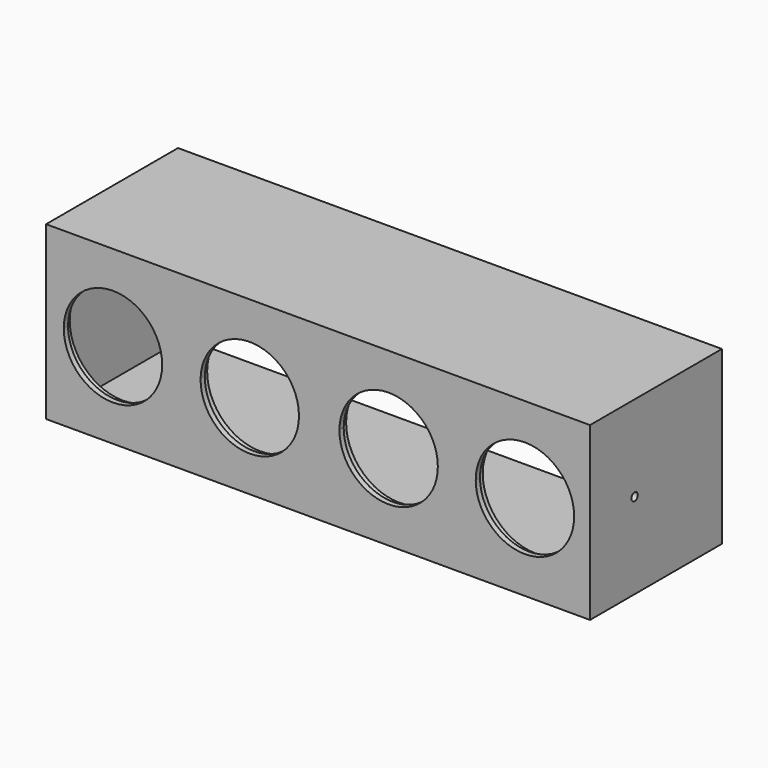
from build123d import *

# Parameters (mm, degrees)
F0_W     = 259.731292
F0_H     = 81.926138
F1_DEPTH = 2.54
F2_DEPTH = 76.2
F4_DEPTH = 3.81
F5_R     = 1.905
F6_DEPTH = 25.4
F7_W     = 2.467993
F7_H     = 69.85
F8_DEPTH = 3.81


with BuildPart() as f1:
    # F0 (on Front) → F1 (new body)
    with BuildSketch(Plane.XZ):
        Rectangle(F0_W, F0_H)
        Polygon((-127, 38.1), (127, 38.1), (127, 0), (127, -38.1), (-127, -38.1), (-127, 0), align=None, mode=Mode.SUBTRACT)
        with BuildLine():
            Line((127, 0), (127, 38.1))
            Line((127, 38.1), (-127, 38.1))
            Line((-127, 38.1), (-127, 0))
            Line((-127, 0), (-121.421141, 0))
            ThreePointArc((-121.421141, 0), (-97.926572, 23.352705), (-74.432003, 0))
            Line((-74.432003, 0), (-63.5, 0))
            Line((-63.5, 0), (-56.090223, 0))
            ThreePointArc((-56.090223, 0), (-32.59841, 23.10803), (-9.106597, 0))
            Line((-9.106597, 0), (0, 0))
            Line((0, 0), (10.213884, 0))
            ThreePointArc((10.213884, 0), (33.708453, 23.352705), (57.203022, 0))
            Line((57.203022, 0), (63.5, 0))
            Line((63.5, 0), (75.297165, 0))
            ThreePointArc((75.297165, 0), (98.740752, 23.597324), (122.286942, 0.10238))
            ThreePointArc((122.286942, 0.10238), (122.286886, 0.05119), (122.286719, 0))
            Line((122.286719, 0), (127, 0))
        make_face()
        with BuildLine():
            Line((127, -38.1), (127, 0))
            Line((127, 0), (122.286719, 0))
            ThreePointArc((122.286719, 0), (98.791942, -23.39262), (75.297165, 0))
            Line((75.297165, 0), (63.5, 0))
            Line((63.5, 0), (57.203022, 0))
            ThreePointArc((57.203022, 0), (57.203345, -0.071147), (57.203453, -0.142295))
            ThreePointArc((57.203453, -0.142295), (33.637305, -23.637187), (10.213884, 0))
            Line((10.213884, 0), (0, 0))
            Line((0, 0), (-9.106597, 0))
            ThreePointArc((-9.106597, 0), (-9.104207, -0.193478), (-9.10341, -0.38697))
            ThreePointArc((-9.10341, -0.38697), (-32.791901, -23.881173), (-56.090223, 0))
            Line((-56.090223, 0), (-63.5, 0))
            Line((-63.5, 0), (-74.432003, 0))
            ThreePointArc((-74.432003, 0), (-74.43168, -0.071147), (-74.431572, -0.142295))
            ThreePointArc((-74.431572, -0.142295), (-97.99772, -23.637187), (-121.421141, 0))
            Line((-121.421141, 0), (-127, 0))
            Line((-127, 0), (-127, -38.1))
            Line((-127, -38.1), (127, -38.1))
        make_face()
    extrude(amount=F1_DEPTH)

    # F0 (on Front) → F2 (join)
    with BuildSketch(Plane.XZ):
        Rectangle(F0_W, F0_H)
        Polygon((-127, 38.1), (127, 38.1), (127, 0), (127, -38.1), (-127, -38.1), (-127, 0), align=None, mode=Mode.SUBTRACT)
    extrude(amount=-F2_DEPTH)

    # F3 (on face) → F4 (join)
    with BuildSketch(Plane.XZ):
        with BuildLine():
            Line((73.582936, 0), (70.973357, 0))
            ThreePointArc((70.973357, 0), (98.843972, -28.284051), (126.990887, -0.274948))
            ThreePointArc((126.990887, -0.274948), (126.99055, -0.137473), (126.989538, 0))
            Line((126.989538, 0), (124.379959, 0))
            ThreePointArc((124.379959, 0), (124.381075, -0.137472), (124.381448, -0.274948))
            ThreePointArc((124.381448, -0.274948), (98.843971, -25.674576), (73.582936, 0))
        make_face()
        with BuildLine():
            ThreePointArc((126.989538, 0), (98.981448, 27.734491), (70.973357, 0))
            Line((70.973357, 0), (73.582936, 0))
            ThreePointArc((73.582936, 0), (98.981448, 25.125052), (124.379959, 0))
            Line((124.379959, 0), (126.989538, 0))
        make_face()
        with BuildLine():
            ThreePointArc((61.736299, 0), (33.727009, 27.91779), (5.717719, 0))
            Line((5.717719, 0), (8.327174, 0))
            ThreePointArc((8.327174, 0), (33.727009, 25.308351), (59.126844, 0))
            Line((59.126844, 0), (61.736299, 0))
        make_face()
        with BuildLine():
            Line((8.327174, 0), (5.717719, 0))
            ThreePointArc((5.717719, 0), (33.681184, -28.101052), (61.736449, -0.091649))
            ThreePointArc((61.736449, -0.091649), (61.736411, -0.045825), (61.736299, 0))
            Line((61.736299, 0), (59.126844, 0))
            ThreePointArc((59.126844, 0), (59.126968, -0.045825), (59.127009, -0.091649))
            ThreePointArc((59.127009, -0.091649), (33.681184, -25.491608), (8.327174, 0))
        make_face()
        with BuildLine():
            ThreePointArc((-58.027052, 0), (-32.627217, 25.308351), (-7.227383, 0))
            Line((-7.227383, 0), (-4.617928, 0))
            ThreePointArc((-4.617928, 0), (-32.627217, 27.91779), (-60.636507, 0))
            Line((-60.636507, 0), (-58.027052, 0))
        make_face()
        with BuildLine():
            ThreePointArc((-7.227383, 0), (-7.227259, -0.045825), (-7.227217, -0.091649))
            ThreePointArc((-7.227217, -0.091649), (-32.673042, -25.491608), (-58.027052, 0))
            Line((-58.027052, 0), (-60.636507, 0))
            ThreePointArc((-60.636507, 0), (-32.673042, -28.101052), (-4.617778, -0.091649))
            ThreePointArc((-4.617778, -0.091649), (-4.617815, -0.045825), (-4.617928, 0))
            Line((-4.617928, 0), (-7.227383, 0))
        make_face()
        with BuildLine():
            ThreePointArc((-70.238811, -0.091649), (-70.238849, -0.045825), (-70.238961, 0))
            Line((-70.238961, 0), (-72.848416, 0))
            ThreePointArc((-72.848416, 0), (-72.848292, -0.045825), (-72.848251, -0.091649))
            ThreePointArc((-72.848251, -0.091649), (-98.294076, -25.491608), (-123.648085, 0))
            Line((-123.648085, 0), (-126.257541, 0))
            ThreePointArc((-126.257541, 0), (-98.294076, -28.101052), (-70.238811, -0.091649))
        make_face()
        with BuildLine():
            Line((-72.848416, 0), (-70.238961, 0))
            ThreePointArc((-70.238961, 0), (-98.248251, 27.91779), (-126.257541, 0))
            Line((-126.257541, 0), (-123.648085, 0))
            ThreePointArc((-123.648085, 0), (-98.248251, 25.308351), (-72.848416, 0))
        make_face()
    extrude(amount=-F4_DEPTH)

    # F5 (on face) → F6 (cut)
    with BuildSketch(Plane.YZ.offset(129.865646)):
        with Locations((24.066546, 0)):
            Circle(F5_R)
    extrude(amount=-F6_DEPTH, mode=Mode.SUBTRACT)

    # F7 (on face) → F8 (join)
    with BuildSketch(Plane(origin=(0, 0, 38.1), x_dir=(1, 0, 0), z_dir=(0, 0, -1))):
        Polygon((-37.20969, -73.142835), (-34.925, -73.142835), (-34.925, -3.292835), (-34.925, -3.207732), (-37.20969, -3.207732), align=None)
        with Locations((36.158997, -38.217835)):
            Rectangle(F7_W, F7_H)
    extrude(amount=F8_DEPTH)


solid = f1.part
